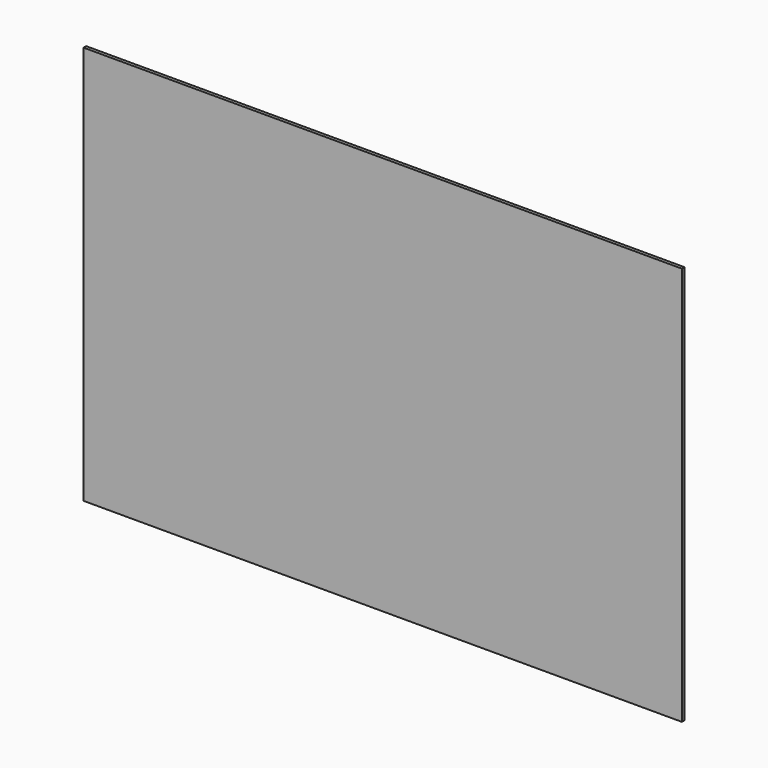
from build123d import *

# Parameters (mm, degrees)
SKETCH_W  = 1828.8
SKETCH_H  = 1219.2
PAD_DEPTH = 10


with BuildPart() as part:
    # Sketch → Pad (new body)
    with BuildSketch(Plane.XZ):
        with Locations((914.4, 609.6)):
            Rectangle(SKETCH_W, SKETCH_H)
    extrude(amount=PAD_DEPTH)


solid = part.part
